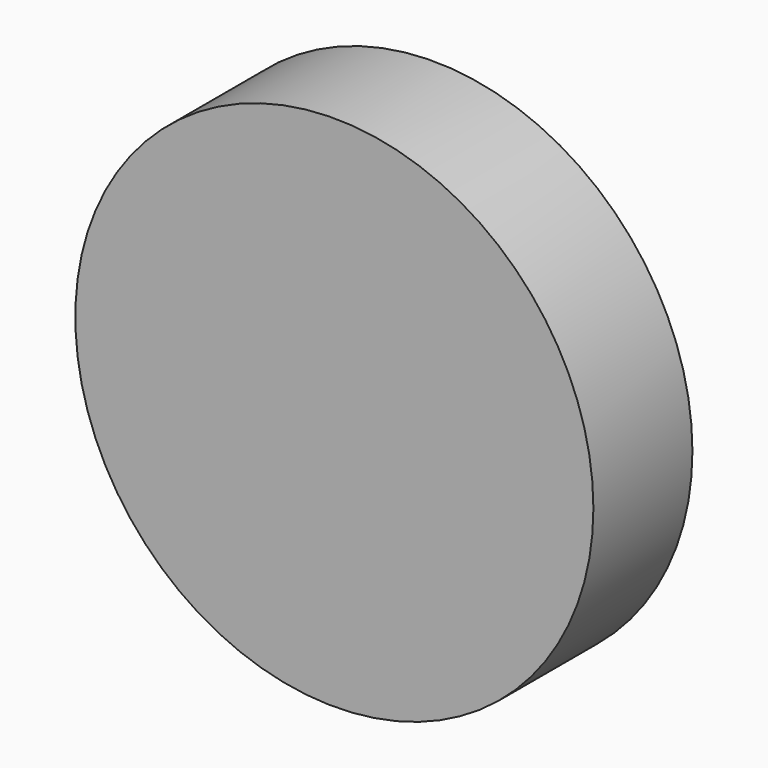
from build123d import *

# Parameters (mm, degrees)
F0_R     = 53.1547008714
F1_DEPTH = 25.4


with BuildPart() as f1:
    # F0 (on Front) → F1 (new body)
    with BuildSketch(Plane.XZ):
        with Locations((-31.7481532693, 23.6076004803)):
            Circle(F0_R)
        Polygon((-34.7717888653, -5.2332123742), (-52.6378686236, 5.0232423169), (-46.3370766776, 15.9988137827), (-27.8386449233, 17.1267677426), (-14.9071385955, 2.0853435172), align=None, mode=Mode.SUBTRACT)
        Polygon((-46.3370766776, 15.9988137827), (-52.6378686236, 5.0232423169), (-34.7717888653, -5.2332123742), (-14.9071385955, 2.0853435172), (-27.8386449233, 17.1267677426), align=None)
    extrude(amount=F1_DEPTH)


solid = f1.part
